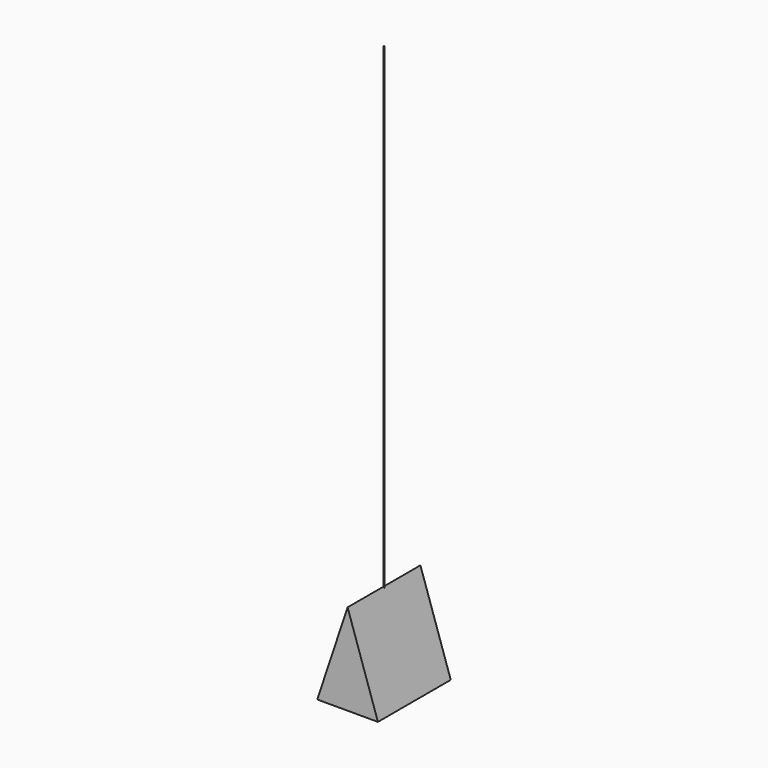
from build123d import *

# Parameters (mm, degrees)
F1_DEPTH = 14.2875
F2_R     = 0.15875
F3_DEPTH = 177.8


with BuildPart() as f1:
    # F0 (on Front) → F1 (new body, symmetric)
    with BuildSketch(Plane.XZ):
        Polygon((0, 28.575), (-9.525, 0), (9.525, 0), align=None)
    extrude(amount=F1_DEPTH, both=True)

    # F2 (on Top) → F3 (join)
    with BuildSketch(Plane.XY):
        Circle(F2_R)
    extrude(amount=F3_DEPTH)


solid = f1.part
